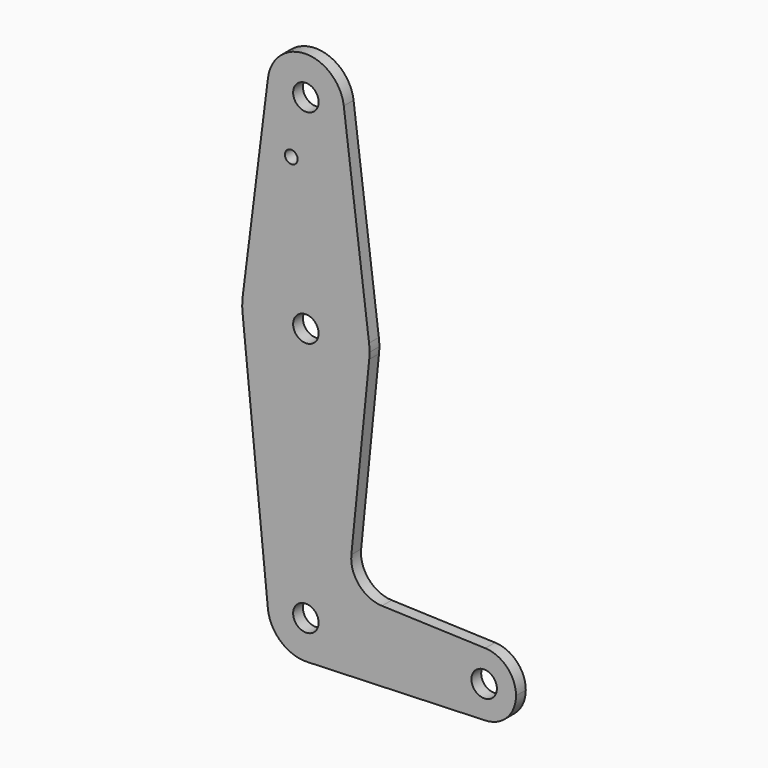
from build123d import *

# Parameters (mm, degrees)
F0_R     = 3.175
F0_R_2   = 1.5875
F1_DEPTH = 3.048


with BuildPart() as f1:
    # F0 (on Front) → F1 (new body)
    with BuildSketch(Plane.XZ):
        with BuildLine():
            ThreePointArc((-27.209515, 52.91891), (-18.355705, 42.22198), (-8.234222, 51.728285))
            ThreePointArc((-8.234222, 51.728285), (-8.252917, 52.324768), (-8.308929, 52.91891))
            ThreePointArc((-8.308929, 52.91891), (-17.759222, 61.253285), (-27.209515, 52.91891))
        make_face()
        with Locations((-17.759222, 51.728285)):
            Circle(F0_R, mode=Mode.SUBTRACT)
        with BuildLine():
            ThreePointArc((-8.308929, 52.91891), (-8.252917, 52.324768), (-8.234222, 51.728285))
            ThreePointArc((-8.234222, 51.728285), (-18.355705, 42.22198), (-27.209515, 52.91891))
            Line((-27.209515, 52.91891), (-33.50971, 2.91266))
            ThreePointArc((-33.50971, 2.91266), (-17.759222, 16.803285), (-2.008733, 2.91266))
            Line((-2.008733, 2.91266), (-8.308929, 52.91891))
        make_face()
        with Locations((-21.397864, 37.453485)):
            Circle(F0_R_2, mode=Mode.SUBTRACT)
        with BuildLine():
            ThreePointArc((-1.884222, 0.928285), (-1.91538, 1.922424), (-2.008733, 2.91266))
            ThreePointArc((-2.008733, 2.91266), (-17.759222, 16.803285), (-33.50971, 2.91266))
            ThreePointArc((-33.50971, 2.91266), (-33.632966, 1.12799), (-33.554647, -0.659215))
            ThreePointArc((-33.554647, -0.659215), (-17.759222, -14.946715), (-1.963796, -0.659215))
            ThreePointArc((-1.963796, -0.659215), (-1.904128, 0.133538), (-1.884222, 0.928285))
        make_face()
        with Locations((-17.759222, 0.928285)):
            Circle(F0_R, mode=Mode.SUBTRACT)
        with BuildLine():
            ThreePointArc((-1.963796, -0.659215), (-17.759222, -14.946715), (-33.554647, -0.659215))
            Line((-33.554647, -0.659215), (-27.236477, -63.524215))
            ThreePointArc((-27.236477, -63.524215), (-18.23607, -53.058659), (-8.234222, -62.571715))
            ThreePointArc((-8.234222, -62.571715), (-10.904813, -69.185542), (-17.419043, -72.090639))
            Line((-17.419043, -72.090639), (26.97426, -70.504151))
            ThreePointArc((26.97426, -70.504151), (18.753278, -62.571715), (26.97426, -54.639279))
            Line((26.97426, -54.639279), (1.208378, -53.718481))
            ThreePointArc((1.208378, -53.718481), (-4.498022, -51.000356), (-6.418035, -44.978333))
            Line((-6.418035, -44.978333), (-1.963796, -0.659215))
        make_face()
        with BuildLine():
            ThreePointArc((-1.963796, -0.659215), (-17.759222, -14.946715), (-33.554647, -0.659215))
            Line((-33.554647, -0.659215), (-27.236477, -63.524215))
            ThreePointArc((-27.236477, -63.524215), (-18.23607, -53.058659), (-8.234222, -62.571715))
            ThreePointArc((-8.234222, -62.571715), (-10.904813, -69.185542), (-17.419043, -72.090639))
            Line((-17.419043, -72.090639), (26.97426, -70.504151))
            ThreePointArc((26.97426, -70.504151), (18.753278, -62.571715), (26.97426, -54.639279))
            Line((26.97426, -54.639279), (1.208378, -53.718481))
            ThreePointArc((1.208378, -53.718481), (-4.498022, -51.000356), (-6.418035, -44.978333))
            Line((-6.418035, -44.978333), (-1.963796, -0.659215))
        make_face()
        with BuildLine():
            ThreePointArc((-8.234222, -62.571715), (-18.23607, -53.058659), (-27.236477, -63.524215))
            ThreePointArc((-27.236477, -63.524215), (-24.021605, -69.748635), (-17.419043, -72.090639))
            ThreePointArc((-17.419043, -72.090639), (-10.904813, -69.185542), (-8.234222, -62.571715))
        make_face()
        with Locations((-17.759222, -62.571715)):
            Circle(F0_R, mode=Mode.SUBTRACT)
        with BuildLine():
            ThreePointArc((26.97426, -54.639279), (18.753278, -62.571715), (26.97426, -70.504151))
            ThreePointArc((26.97426, -70.504151), (32.402785, -68.083238), (34.628278, -62.571715))
            ThreePointArc((34.628278, -62.571715), (32.402785, -57.060192), (26.97426, -54.639279))
        make_face()
        with Locations((26.690778, -62.571715)):
            Circle(F0_R, mode=Mode.SUBTRACT)
    extrude(amount=F1_DEPTH)


solid = f1.part
